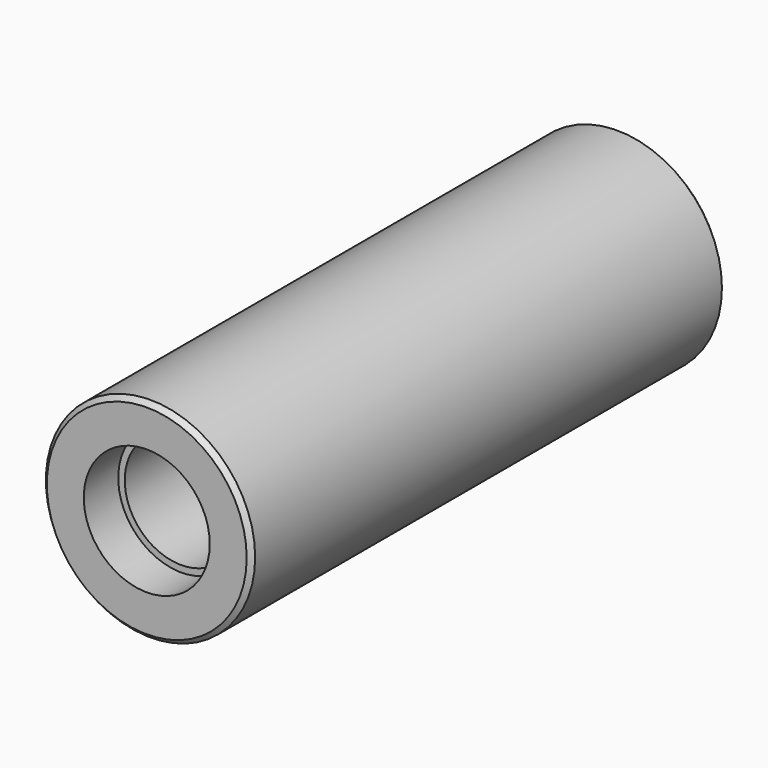
from build123d import *

# Parameters (mm, degrees)
F0_R           = 70.612
F1_DEPTH       = 200.025
F2_SIZE        = 3.175
F4_D           = 76.2
F4_CBORE_D     = 85.0011
F4_CBORE_DEPTH = 29.0576
F5_R           = 42.50055
F6_DEPTH       = 29.0576


with BuildPart() as f1:
    # F0 (on Front) → F1 (new body, symmetric)
    with BuildSketch(Plane.XZ):
        Circle(F0_R)
    extrude(amount=F1_DEPTH, both=True)

    # F2
    f2_edges = [f1.edges().sort_by_distance(p)[0] for p in [
        (-70.612, -200.025, 0),
        (-70.612, 200.025, 0),
    ]]
    chamfer(f2_edges, length=F2_SIZE)

    # F4 (through all)
    with Locations(Plane(origin=(0, 200.025, 0), x_dir=(-1, 0, 0), z_dir=(0, 1, 0))):
        with Locations((0, 0)):
            CounterBoreHole(F4_D / 2, F4_CBORE_D / 2, F4_CBORE_DEPTH)

    # F5 (on face) → F6 (cut)
    with BuildSketch(Plane.XZ.offset(200.025)):
        Circle(F5_R)
    extrude(amount=-F6_DEPTH, mode=Mode.SUBTRACT)


solid = f1.part
